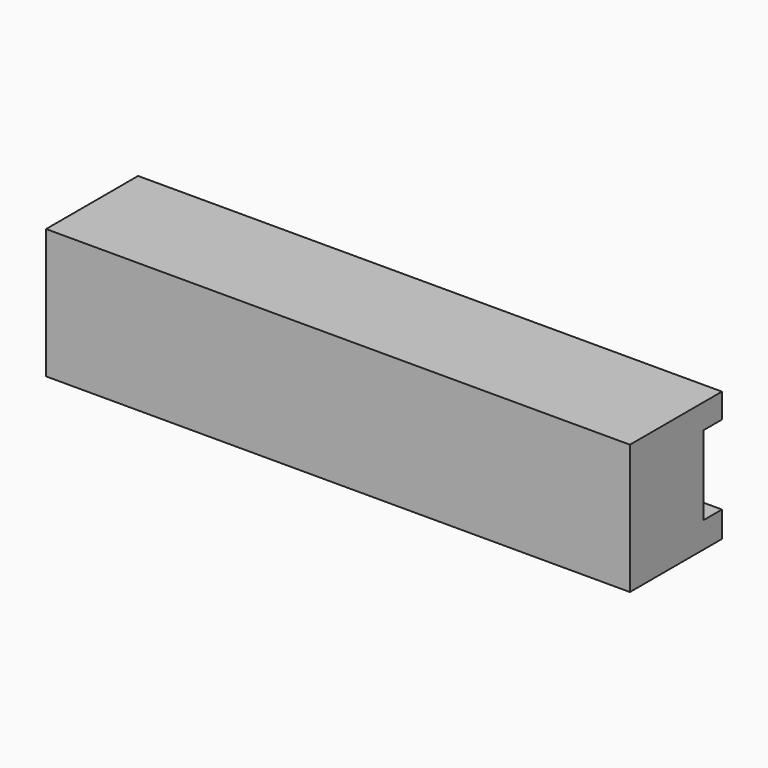
from build123d import *

# Parameters (mm, degrees)
F0_W     = 114.3
F0_H     = 4.5211492
F0_H_2   = 17.9908454
F1_DEPTH = 5.08
F2_DEPTH = 15.494
F3_START = 15.494
F3_DEPTH = 4.826


with BuildPart() as f1:
    # F0 (on Top) → F1 (new body)
    with BuildSketch(Plane.XY):
        with Locations((5.5734652638, -23.0715045245)):
            Rectangle(F0_W, F0_H)
        with Locations((5.5734652638, -34.3275018245)):
            Rectangle(F0_W, F0_H_2)
    extrude(amount=-F1_DEPTH)

    # F0 (on Top) → F2 (join)
    with BuildSketch(Plane.XY):
        with Locations((5.5734652638, -34.3275018245)):
            Rectangle(F0_W, F0_H_2)
    extrude(amount=F2_DEPTH)

    # F0 (on Top) → F3 (join)
    with BuildSketch(Plane.XY.offset(F3_START)):
        with Locations((5.5734652638, -23.0715045245)):
            Rectangle(F0_W, F0_H)
        with Locations((5.5734652638, -34.3275018245)):
            Rectangle(F0_W, F0_H_2)
    extrude(amount=F3_DEPTH)


solid = f1.part
